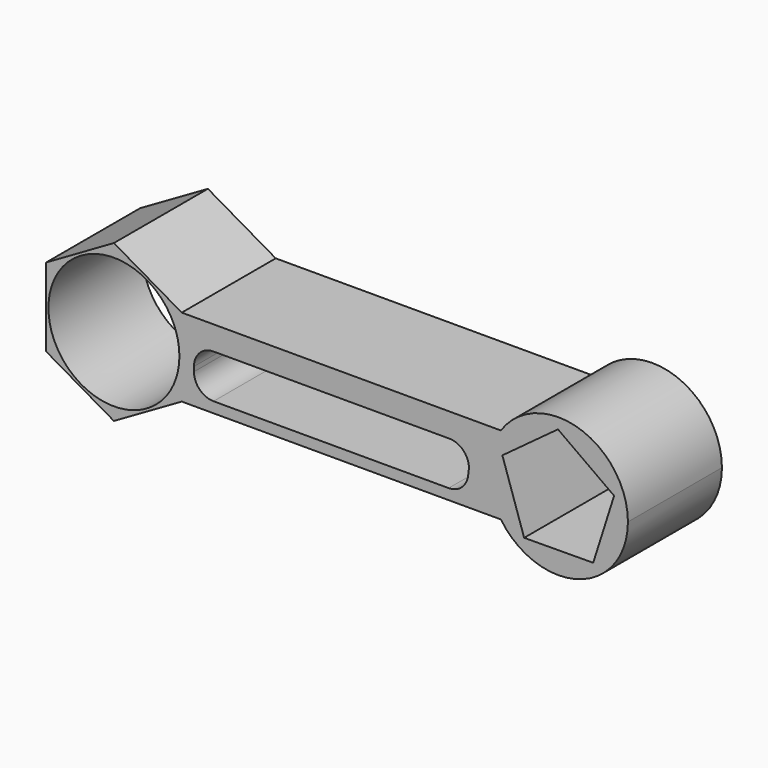
from build123d import *

# Parameters (mm, degrees)
F1_DEPTH = 30


with BuildPart() as f1:
    # F0 (on Front) → F1 (new body)
    with BuildSketch(Plane.XZ):
        with BuildLine():
            Line((-100.0831654086, -10), (-96.1658227274, -10))
            Line((-96.1658227274, -10), (-96.1658227274, 10))
            Line((-96.1658227274, 10), (-100.0831654086, 10))
            ThreePointArc((-100.0831654086, 10), (-97.6152814904, 5.2682669169), (-96.7637459971, 0))
            ThreePointArc((-96.7637459971, 0), (-97.6152814904, -5.2682669169), (-100.0831654086, -10))
        make_face()
        with BuildLine():
            Line((-113.486330803, -20), (-96.1658227274, -10))
            Line((-96.1658227274, -10), (-100.0831654086, -10))
            ThreePointArc((-100.0831654086, -10), (-130.208915609, 0), (-100.0831654086, 10))
            Line((-100.0831654086, 10), (-96.1658227274, 10))
            Line((-96.1658227274, 10), (-113.486330803, 20))
            Line((-113.486330803, 20), (-130.8068388787, 10))
            Line((-130.8068388787, 10), (-130.8068388787, -10))
            Line((-130.8068388787, -10), (-113.486330803, -20))
        make_face()
        with BuildLine():
            Line((-96.1658227274, 10), (-96.1658227274, -10))
            Line((-96.1658227274, -10), (-14.6816440445, -10))
            ThreePointArc((-14.6816440445, -10), (-17.7637459971, 0), (-14.6816440445, 10))
            Line((-14.6816440445, 10), (-96.1658227274, 10))
        make_face()
        with BuildLine():
            ThreePointArc((-93.0463036842, -1.1045418554), (-91.5817891612, 2.4309034985), (-88.0463036861, 3.8953211624))
            Line((-88.0463036861, 3.8953211624), (-27.8301693912, 3.8953211624))
            ThreePointArc((-27.8301693912, 3.8953211624), (-24.2946354853, 2.4308550684), (-22.8301693912, -1.1046788376))
            Line((-22.8301693912, -1.1046788376), (-23.0463361325, -2.8900658801))
            ThreePointArc((-23.0463361325, -2.8900658801), (-24.6938338715, -6.0310647831), (-28.0100859706, -7.289077074))
            Line((-28.0100859706, -7.289077074), (-88.0463361344, -7.289077074))
            ThreePointArc((-88.0463361344, -7.289077074), (-91.5819184705, -5.8245625491), (-93.0463361325, -2.2889400918))
            Line((-93.0463361325, -2.2889400918), (-93.0463036842, -1.1045418554))
        make_face(mode=Mode.SUBTRACT)
        with BuildLine():
            ThreePointArc((-14.6816440445, 10), (-17.7637459971, 0), (-14.6816440445, -10))
            ThreePointArc((-14.6816440445, -10), (5.2320969134, -16.9757425092), (17.7637459971, 0))
            ThreePointArc((17.7637459971, 0), (5.2320969134, 16.9757425092), (-14.6816440445, 10))
        make_face()
        Polygon((14.2347522661, 4.7309569574), (8.8981878036, -12.076107801), (-8.7353697652, -12.1944020303), (-14.2969432228, 4.5395528738), (-0.1006270817, 15), align=None, mode=Mode.SUBTRACT)
    extrude(amount=F1_DEPTH)


solid = f1.part
